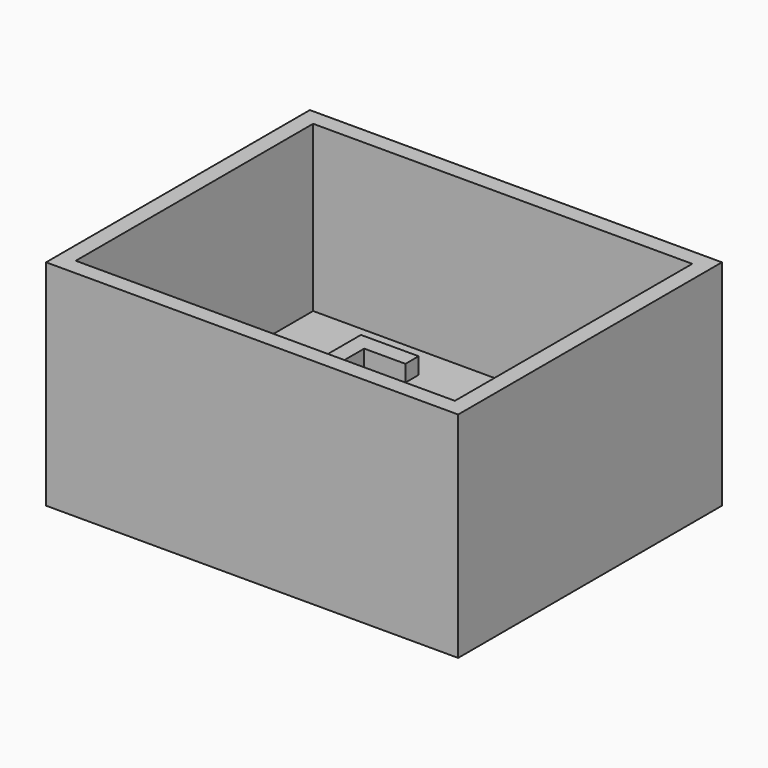
from build123d import *

# Parameters (mm, degrees)
F0_W     = 50
F0_H     = 40
F1_DEPTH = 6
F2_W     = 50
F2_H     = 40
F2_W_2   = 46
F2_H_2   = 36
F3_DEPTH = 20
F5_DEPTH = 2


with BuildPart() as f1:
    # F0 (on Top) → F1 (new body)
    with BuildSketch(Plane.XY):
        Rectangle(F0_W, F0_H)
    extrude(amount=F1_DEPTH)

    # F2 (on face) → F3 (join)
    with BuildSketch(Plane.XY.offset(6)):
        Rectangle(F2_W, F2_H)
        Rectangle(F2_W_2, F2_H_2, mode=Mode.SUBTRACT)
    extrude(amount=F3_DEPTH)

    # F4 (on face) → F5 (join)
    with BuildSketch(Plane.XY.offset(6)):
        Polygon((-12, 7), (-12, 12), (-7, 12), (-7, 14), (-14, 14), (-14, 7), align=None)
        Polygon((7, 12), (12, 12), (12, 7), (14, 7), (14, 14), (7, 14), align=None)
        Polygon((14, -7), (12, -7), (12, -12), (7, -12), (7, -14), (14, -14), align=None)
        Polygon((-7, -12), (-12, -12), (-12, -7), (-14, -7), (-14, -14), (-7, -14), align=None)
    extrude(amount=F5_DEPTH)


solid = f1.part
